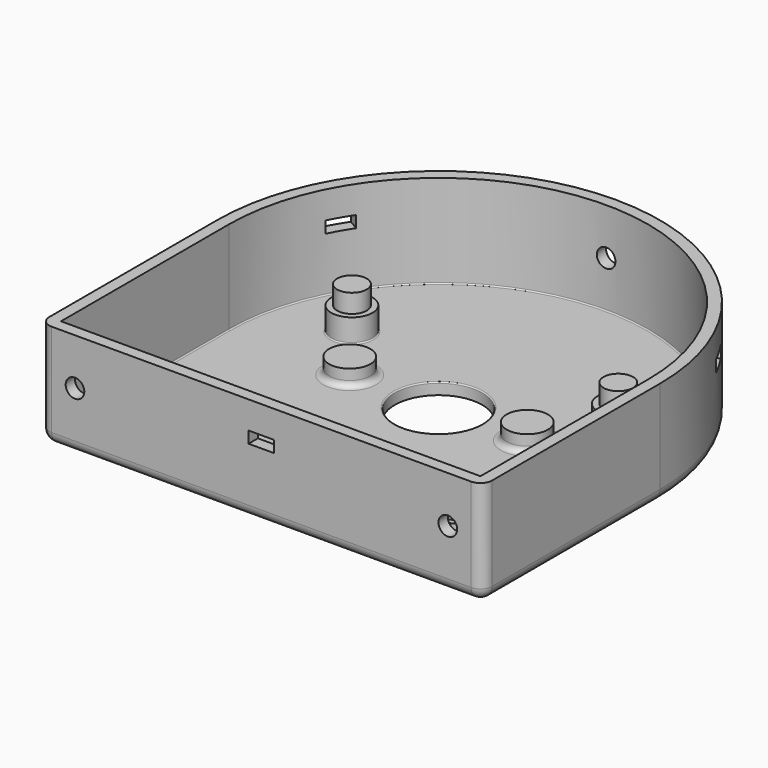
from build123d import *

# Parameters (mm, degrees)
PAD005_DEPTH     = 8
THICKNESS_T      = 1
SKETCH006_R      = 1.77
PAD006_DEPTH     = 2
SKETCH007_R      = 1.27
PAD007_DEPTH     = 3.6
SKETCH008_R      = 3.75
HOLE_DEPTH       = 25
FILLET_R         = 0.1
SKETCH010_R      = 1.77
PAD010_DEPTH     = 1.4
SKETCH011_R      = 0.8
HOLE002_DEPTH    = 10
HOLE002_TIPS_R   = 0.8
SKETCH012_R      = 0.8
HOLE003_DEPTH    = 25
FILLET004_R      = 0.5
SHAPEBINDER_W    = 2.2
SHAPEBINDER_H    = 1
POCKET_DEPTH     = 18.755483
SHAPEBINDER001_W = 2.2
SHAPEBINDER001_H = 1
POCKET001_DEPTH  = 11.801
SHAPEBINDER002_W = 2.2
SHAPEBINDER002_H = 1
POCKET002_DEPTH  = 18.755483


with BuildPart() as part:
    # Sketch005 → Pad005 (new body)
    with BuildSketch(Plane.XY):
        with BuildLine():
            Line((-18, -18), (-18, 0))
            ThreePointArc((18, 0), (0, 18), (-18, 0))
            Line((18, 0), (18, -18))
            Line((18, -18), (-18, -18))
        make_face()
    extrude(amount=PAD005_DEPTH)

    # Thickness
    thickness_openings = [part.faces().sort_by_distance(p)[0] for p in [
        (0, -1.680297, 8),
    ]]
    offset(amount=THICKNESS_T, openings=thickness_openings)

    # Sketch006 → Pad006 (join)
    with BuildSketch(Plane.XY):
        with Locations((-12.7, -14)):
            Circle(SKETCH006_R)
        with Locations((12.7, -14)):
            Circle(SKETCH006_R)
        with Locations((-11.43, 5)):
            Circle(SKETCH006_R)
        with Locations((11.43, 5)):
            Circle(SKETCH006_R)
    extrude(amount=PAD006_DEPTH)

    # Sketch007 → Pad007 (join)
    with BuildSketch(Plane.XY):
        with Locations((-11.43, 5)):
            Circle(SKETCH007_R)
        with Locations((11.43, 5)):
            Circle(SKETCH007_R)
        with Locations((12.7, -14)):
            Circle(SKETCH007_R)
        with Locations((-12.7, -14)):
            Circle(SKETCH007_R)
    extrude(amount=PAD007_DEPTH)

    # Sketch008 (on Face4 of Pad007) → Hole (cut)
    with BuildSketch(Plane.XY):
        Circle(SKETCH008_R)
    extrude(amount=-HOLE_DEPTH, mode=Mode.SUBTRACT)

    # Fillet
    fillet_edges = [part.edges().sort_by_distance(p)[0] for p in [
        (-18, -9, 0),
        (0, -18, 0),
        (0, 18, 0),
        (18, -9, 0),
        (-14.47, -14, 0),
        (10.93, -14, 0),
        (-3.75, 0, 0),
        (-13.2, 5, 0),
        (9.66, 5, 0),
    ]]
    fillet(fillet_edges, radius=FILLET_R)

    # Sketch010 (on Face5 of Thickness) → Pad010 (join)
    with BuildSketch(Plane.XY):
        with Locations((-7.62, 0)):
            Circle(SKETCH010_R)
        with Locations((7.62, 0)):
            Circle(SKETCH010_R)
    extrude(amount=PAD010_DEPTH)

    # Sketch011 (on Face11 of Pad010) → Hole002 (cut)
    with BuildSketch(Plane.XZ.offset(19)):
        with Locations((-16, 4)):
            Circle(SKETCH011_R)
        with Locations((16, 4)):
            Circle(SKETCH011_R)
    extrude(amount=-HOLE002_DEPTH, mode=Mode.SUBTRACT)

    # Hole002 tips → Hole002 tip 1 section 0
    with BuildSketch(Plane.XZ.offset(9), mode=Mode.PRIVATE) as hole002_tip_1_s0:
        with Locations((-16, 4)):
            Circle(HOLE002_TIPS_R)
    loft([hole002_tip_1_s0.sketch, Vertex(-16, -8.519312, 4)], mode=Mode.SUBTRACT)

    # Hole002 tips → Hole002 tip 2 section 0
    with BuildSketch(Plane.XZ.offset(9), mode=Mode.PRIVATE) as hole002_tip_2_s0:
        with Locations((16, 4)):
            Circle(HOLE002_TIPS_R)
    loft([hole002_tip_2_s0.sketch, Vertex(16, -8.519312, 4)], mode=Mode.SUBTRACT)

    # Sketch012 → Hole003 (cut)
    with BuildSketch(Plane.XZ):
        with Locations((0, 4)):
            Circle(SKETCH012_R)
    extrude(amount=-HOLE003_DEPTH, mode=Mode.SUBTRACT)

    # Fillet004
    fillet004_edges = [part.edges().sort_by_distance(p)[0] for p in [
        (5.85, 0, 0),
        (-9.39, 0, 0),
    ]]
    fillet(fillet004_edges, radius=FILLET004_R)

    # ShapeBinder → Pocket (cut, through all)
    with BuildSketch(Plane(origin=(6.235383, 3.6, 5.15), x_dir=(0.5, -0.866025, 0), z_dir=(0.866025, 0.5, 0))):
        Rectangle(SHAPEBINDER_W, SHAPEBINDER_H)
    extrude(amount=POCKET_DEPTH, mode=Mode.SUBTRACT)

    # ShapeBinder001 → Pocket001 (cut, through all)
    with BuildSketch(Plane(origin=(0, -7.2, 5.15), x_dir=(-1, 0, 0), z_dir=(0, -1, 0))):
        Rectangle(SHAPEBINDER001_W, SHAPEBINDER001_H)
    extrude(amount=POCKET001_DEPTH, mode=Mode.SUBTRACT)

    # ShapeBinder002 → Pocket002 (cut, through all)
    with BuildSketch(Plane(origin=(-6.235383, 3.6, 5.15), x_dir=(0.5, 0.866025, 0), z_dir=(-0.866025, 0.5, 0))):
        Rectangle(SHAPEBINDER002_W, SHAPEBINDER002_H)
    extrude(amount=POCKET002_DEPTH, mode=Mode.SUBTRACT)


solid = part.part
